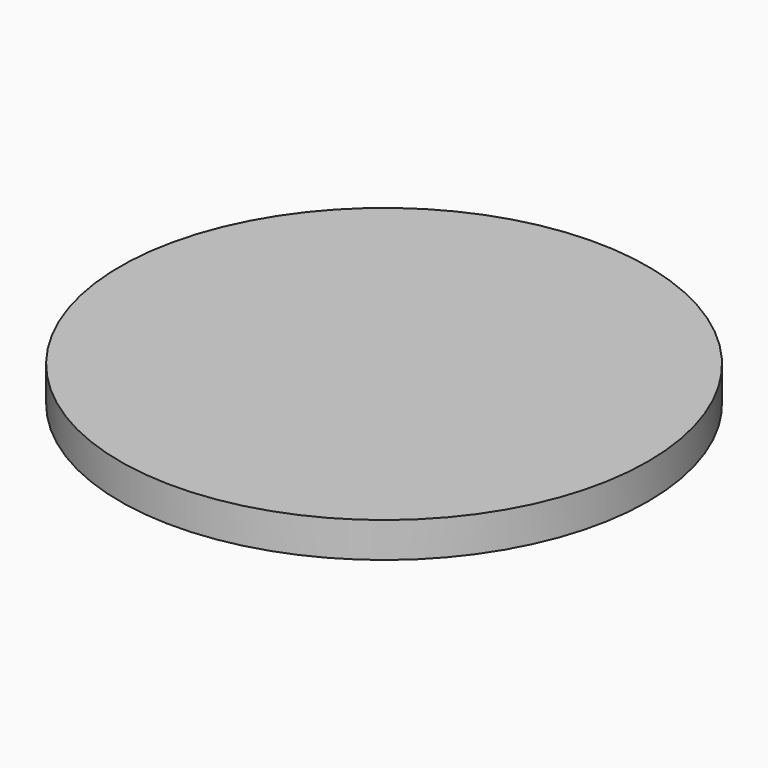
from build123d import *

# Parameters (mm, degrees)
F0_R     = 37.5
F0_W     = 18
F0_H     = 65
F1_DEPTH = 5


with BuildPart() as f1:
    # F0 (on Top) → F1 (new body)
    with BuildSketch(Plane.XY):
        with Locations((9, 32.5)):
            Circle(F0_R)
        with Locations((9, 32.5)):
            Rectangle(F0_W, F0_H, mode=Mode.SUBTRACT)
        Polygon((18, 65), (0, 65), (9, 32.5), align=None)
        Polygon((9, 32.5), (18, 0), (18, 65), align=None)
        Polygon((9, 32.5), (0, 0), (18, 0), align=None)
        Polygon((0, 65), (0, 0), (9, 32.5), align=None)
    extrude(amount=F1_DEPTH)


solid = f1.part
